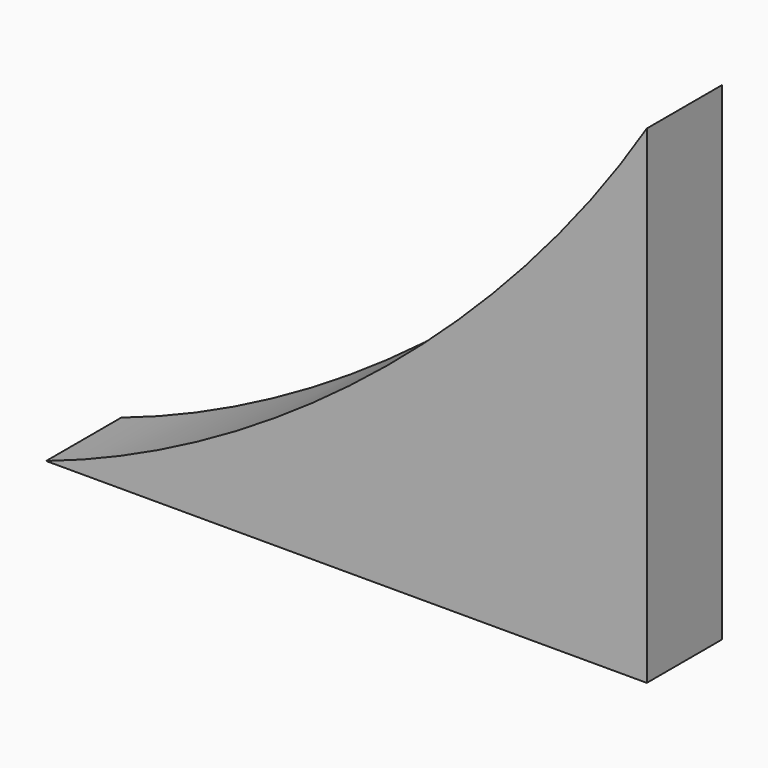
from build123d import *

# Parameters (mm, degrees)
F1_DEPTH = 25


with BuildPart() as f1:
    # F0 (on Front) → F1 (new body)
    with BuildSketch(Plane.XZ):
        with BuildLine():
            Line((-101.5531253469, -65.8952290092), (-101.5531253469, 64.1047709908))
            add(Edge.make_bspline(
                [(-101.5531253469, 64.1047709908), (-136.9620883326, 7.8300750326), (-196.8102218813, -44.1759444954), (-261.5531253469, -65.8952290092)],
                knots=[0, 0, 0, 0, 0.4918759814, 0.4918759814, 0.4918759814, 0.4918759814], degree=3))
            Line((-261.5531253469, -65.8952290092), (-101.5531253469, -65.8952290092))
        make_face()
    extrude(amount=F1_DEPTH)


solid = f1.part
